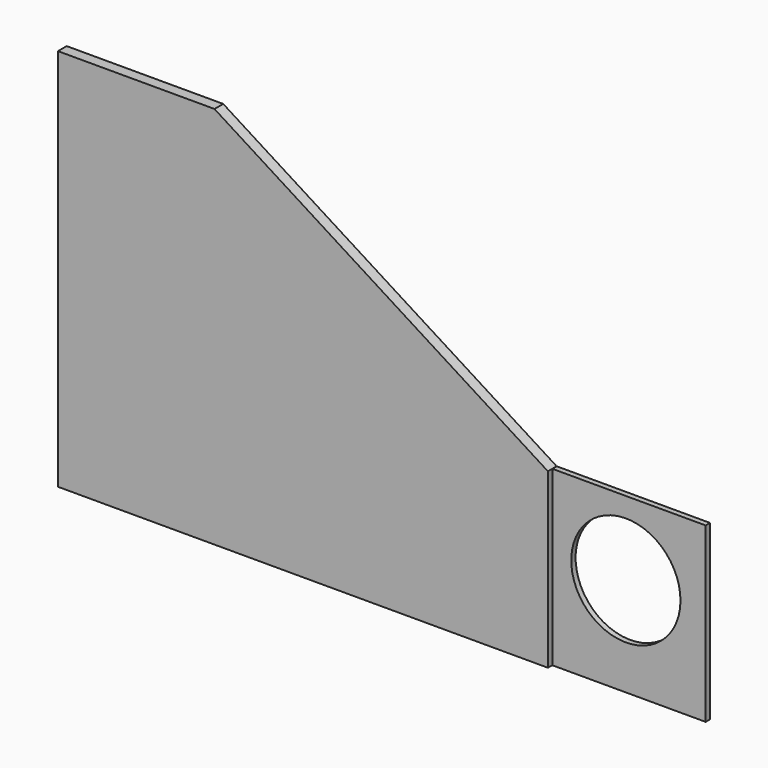
from build123d import *

# Parameters (mm, degrees)
F1_DEPTH = 1.5
F0_W     = 21.057298
F0_H     = 23.743179
F0_R     = 7.495866
F2_DEPTH = 0.75


with BuildPart() as f1:
    # F0 (on Front) → F1 (new body)
    with BuildSketch(Plane.XZ):
        Polygon((-23.635745, 28.90007), (-45.122784, 28.90007), (-45.122784, -23.743179), (22.131654, -23.743179), (22.131654, 0), align=None)
    extrude(amount=F1_DEPTH)

    # F0 (on Front) → F2 (join)
    with BuildSketch(Plane.XZ):
        Polygon((-23.635745, 28.90007), (-45.122784, 28.90007), (-45.122784, -23.743179), (22.131654, -23.743179), (22.131654, 0), align=None)
        with Locations((32.660303, -11.871589)):
            Rectangle(F0_W, F0_H)
        with Locations((32.23056, -10.206345)):
            Circle(F0_R, mode=Mode.SUBTRACT)
    extrude(amount=F2_DEPTH)


solid = f1.part
